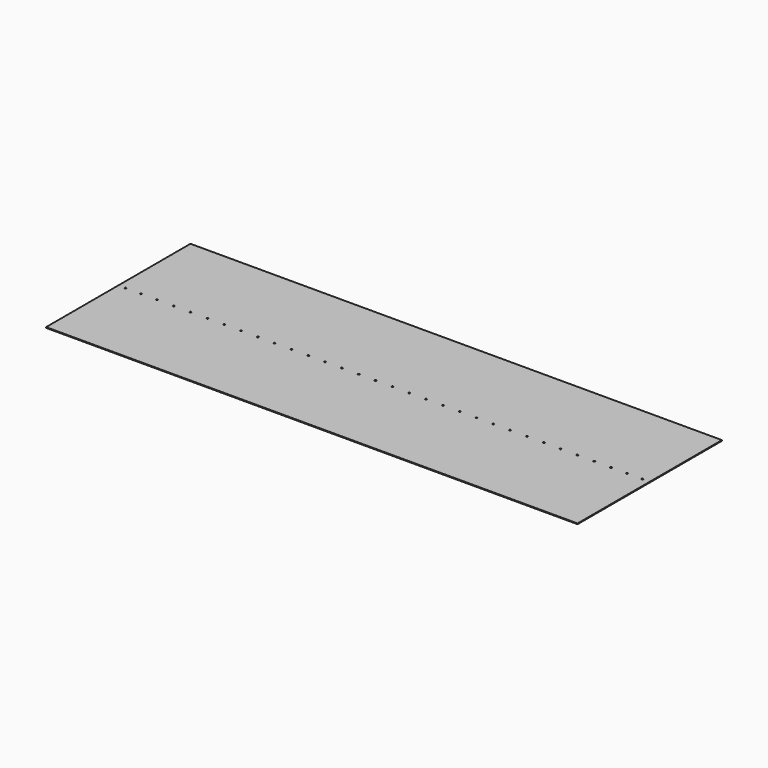
from build123d import *

# Parameters (mm, degrees)
F0_W     = 3634
F0_H     = 1234
F1_DEPTH = 5
F2_R     = 5.5
F3_DEPTH = 5
F4_DEPTH = 5


with BuildPart() as f1:
    # F0 (on Top) → F1 (new body)
    with BuildSketch(Plane.XY):
        Rectangle(F0_W, F0_H)
    extrude(amount=F1_DEPTH)

    # F2 (on face) → F3 (cut, through all)
    with BuildSketch(Plane.XY.offset(5)):
        with Locations((57.5, 0)):
            Circle(F2_R)
    extrude(amount=-F3_DEPTH, mode=Mode.SUBTRACT)

    # F2 (on face) → F4 (cut, through all)
    with BuildSketch(Plane.XY.offset(5)):
        with Locations((57.5, 0)):
            Circle(F2_R)
        with Locations((172.5, 0)):
            Circle(F2_R)
        with Locations((287.5, 0)):
            Circle(F2_R)
        with Locations((402.5, 0)):
            Circle(F2_R)
        with Locations((517.5, 0)):
            Circle(F2_R)
        with Locations((632.5, 0)):
            Circle(F2_R)
        with Locations((747.5, 0)):
            Circle(F2_R)
        with Locations((862.5, 0)):
            Circle(F2_R)
        with Locations((977.5, 0)):
            Circle(F2_R)
        with Locations((1092.5, 0)):
            Circle(F2_R)
        with Locations((1207.5, 0)):
            Circle(F2_R)
        with Locations((1322.5, 0)):
            Circle(F2_R)
        with Locations((1437.5, 0)):
            Circle(F2_R)
        with Locations((1552.5, 0)):
            Circle(F2_R)
        with Locations((-57.5, 0)):
            Circle(F2_R)
        with Locations((-172.5, 0)):
            Circle(F2_R)
        with Locations((-287.5, 0)):
            Circle(F2_R)
        with Locations((-402.5, 0)):
            Circle(F2_R)
        with Locations((-517.5, 0)):
            Circle(F2_R)
        with Locations((-632.5, 0)):
            Circle(F2_R)
        with Locations((-747.5, 0)):
            Circle(F2_R)
        with Locations((-862.5, 0)):
            Circle(F2_R)
        with Locations((-977.5, 0)):
            Circle(F2_R)
        with Locations((-1092.5, 0)):
            Circle(F2_R)
        with Locations((-1207.5, 0)):
            Circle(F2_R)
        with Locations((-1322.5, 0)):
            Circle(F2_R)
        with Locations((-1437.5, 0)):
            Circle(F2_R)
        with Locations((-1552.5, 0)):
            Circle(F2_R)
        with Locations((1767, 0)):
            Circle(F2_R)
        with Locations((1662, 0)):
            Circle(F2_R)
        with Locations((-1767, 0)):
            Circle(F2_R)
        with Locations((-1662, 0)):
            Circle(F2_R)
    extrude(amount=-F4_DEPTH, mode=Mode.SUBTRACT)


solid = f1.part
